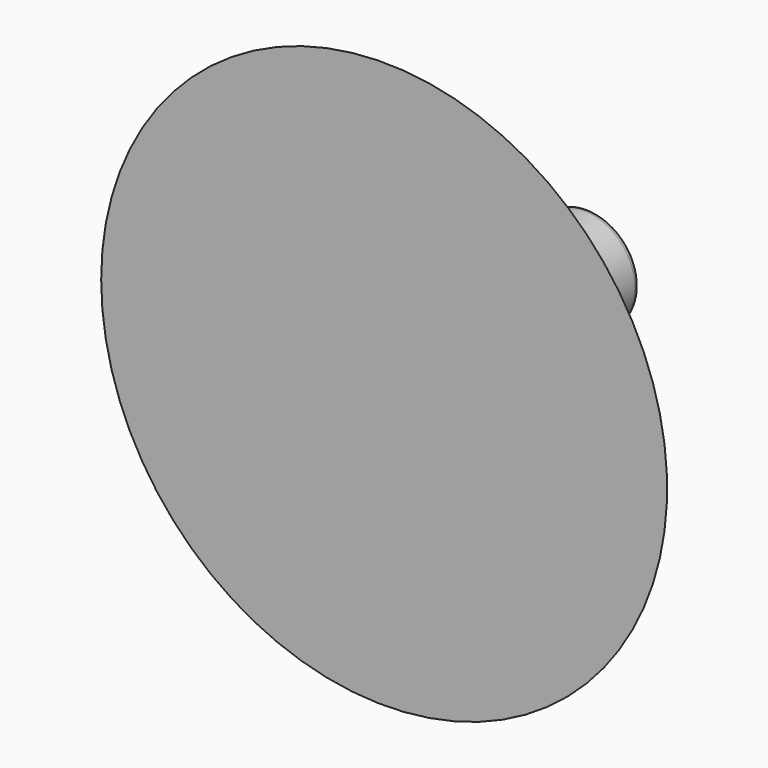
from build123d import *

# Parameters (mm, degrees)
F2_R = 0.254


with BuildPart() as f1:
    # F0 (on Top) → F1 (revolve)
    with BuildSketch(Plane.XY):
        with BuildLine():
            Line((-12.937491, 0), (0, 0))
            Line((0, 0), (0, 9.529724))
            Line((0, 9.529724), (-0.883614, 9.529724))
            Line((-0.883614, 9.529724), (-1.293749, 10.349993))
            Line((-1.293749, 10.349993), (-2.587498, 12.937491))
            ThreePointArc((-2.587498, 12.937491), (-4.653455, 3.981514), (-12.937491, 0))
        make_face()
    revolve(axis=Axis((0, 4.764862, 0), (0, 1, 0)))

    # F2
    f2_edges = [f1.edges().sort_by_distance(p)[0] for p in [
        (2.587498, 12.937491, 0),
    ]]
    fillet(f2_edges, radius=F2_R)


solid = f1.part
